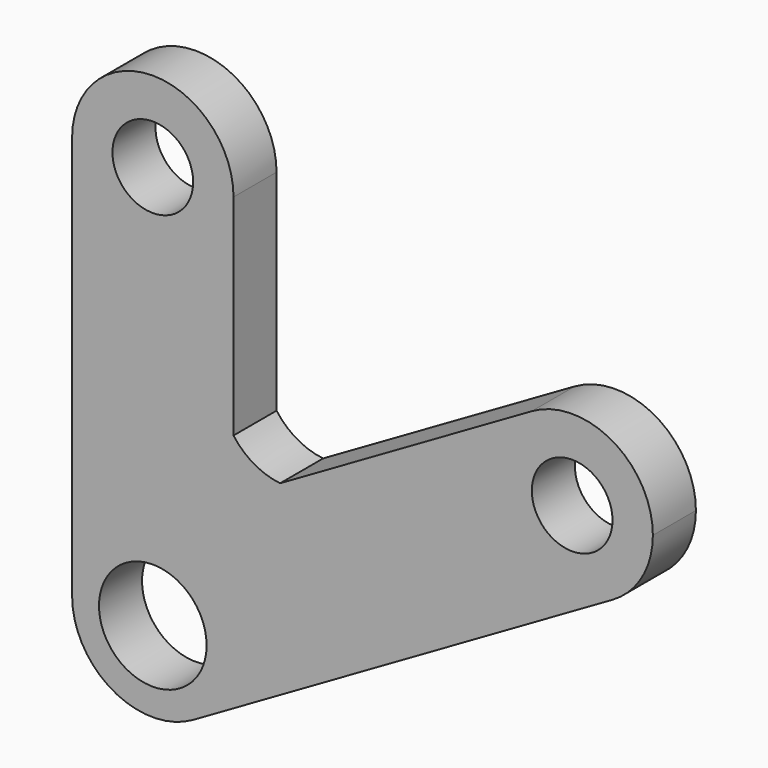
from build123d import *

# Parameters (mm, degrees)
F0_R     = 7.5
F0_R_2   = 10
F1_DEPTH = 10


with BuildPart() as f1:
    # F0 (on Front) → F1 (new body)
    with BuildSketch(Plane.XZ):
        with BuildLine():
            ThreePointArc((-15, 75), (0, 60), (15, 75))
            ThreePointArc((15, 75), (0, 90), (-15, 75))
        make_face()
        with Locations((0, 75)):
            Circle(F0_R, mode=Mode.SUBTRACT)
        with BuildLine():
            Line((15, 35.980762), (15, 75))
            ThreePointArc((15, 75), (0, 60), (-15, 75))
            Line((-15, 75), (-15, 0))
            ThreePointArc((-15, 0), (0, 15), (15, 0))
            ThreePointArc((15, 0), (12.990381, -7.5), (7.5, -12.990381))
            Line((7.5, -12.990381), (85.442286, 32.009619))
            ThreePointArc((85.442286, 32.009619), (64.951905, 37.5), (70.442286, 57.990381))
            Line((70.442286, 57.990381), (23.660254, 30.980762))
            ThreePointArc((23.660254, 30.980762), (18.803432, 32.568499), (15, 35.980762))
        make_face()
        with BuildLine():
            ThreePointArc((15, 0), (0, 15), (-15, 0))
            ThreePointArc((-15, 0), (-7.5, -12.990381), (7.5, -12.990381))
            ThreePointArc((7.5, -12.990381), (12.990381, -7.5), (15, 0))
        make_face()
        Circle(F0_R_2, mode=Mode.SUBTRACT)
        with BuildLine():
            ThreePointArc((92.942286, 45), (85.442286, 57.990381), (70.442286, 57.990381))
            ThreePointArc((70.442286, 57.990381), (64.951905, 37.5), (85.442286, 32.009619))
            ThreePointArc((85.442286, 32.009619), (90.932667, 37.5), (92.942286, 45))
        make_face()
        with Locations((77.942286, 45)):
            Circle(F0_R, mode=Mode.SUBTRACT)
    extrude(amount=F1_DEPTH)


solid = f1.part
